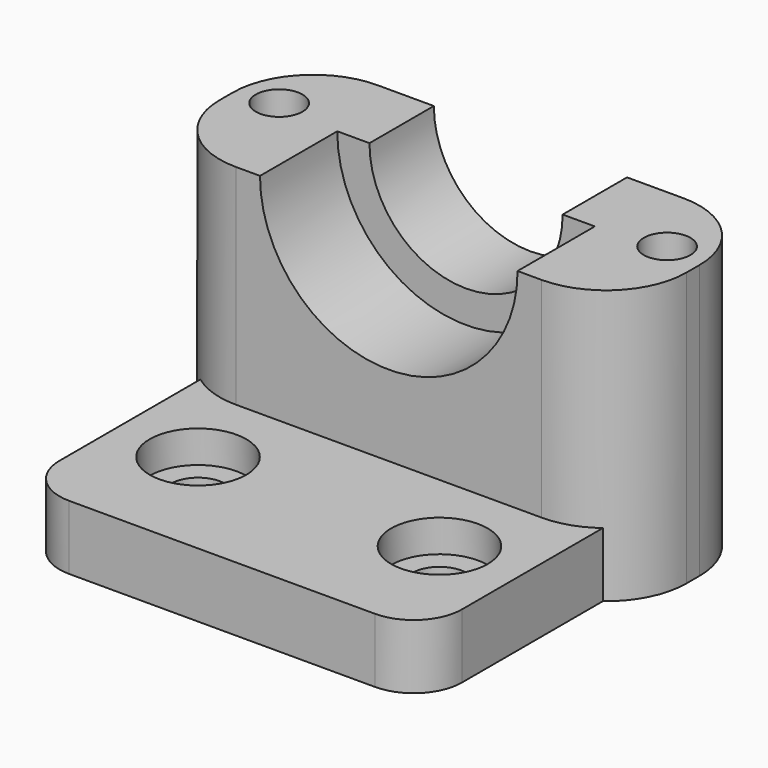
from build123d import *

# Parameters (mm, degrees)
F0_W      = 25
F0_H      = 35
F1_DEPTH  = 4
F2_R      = 1.675
F3_DEPTH  = 25
F4_W      = 25
F4_H      = 11
F5_DEPTH  = 13
F7_DEPTH  = 6
F8_R      = 8
F9_DEPTH  = 6
F2_R_2    = 3
F10_DEPTH = 2
F11_R     = 5
F12_W     = 11
F12_H     = 17
F13_DEPTH = 2
F14_W     = 11
F14_H     = 17
F15_DEPTH = 2
F16_R     = 1.45
F17_DEPTH = 25
F18_R     = 5
F20_DEPTH = 25
F21_R     = 3


with BuildPart() as f1:
    # F0 (on Top) → F1 (new body)
    with BuildSketch(Plane.XY):
        with Locations((12.5, 17.5)):
            Rectangle(F0_W, F0_H)
    extrude(amount=F1_DEPTH)

    # F2 (on face) → F3 (cut)
    with BuildSketch(Plane.XY.offset(4)):
        with BuildLine():
            ThreePointArc((3.325, 18.5605346784), (5, 16.8855346784), (6.675, 18.5605346784))
            ThreePointArc((6.675, 18.5605346784), (5, 20.2355346784), (3.325, 18.5605346784))
        make_face()
        with Locations((20, 18.5605346784)):
            Circle(F2_R)
        with Locations((20, 3.5605346784)):
            Circle(F2_R)
        with Locations((5, 3.5605346784)):
            Circle(F2_R)
    extrude(amount=-F3_DEPTH, mode=Mode.SUBTRACT)

    # F4 (on face) → F5 (join)
    with BuildSketch(Plane.XY.offset(4)):
        with Locations((12.5, 29.5)):
            Rectangle(F4_W, F4_H)
    extrude(amount=F5_DEPTH)

    # F6 (on face) → F7 (cut)
    with BuildSketch(Plane(origin=(0, 35, 0), x_dir=(-1, 0, 0), z_dir=(0, 1, 0))):
        with BuildLine():
            ThreePointArc((-18.5, 17), (-12.5, 11), (-6.5, 17))
            Line((-6.5, 17), (-18.5, 17))
        make_face()
    extrude(amount=-F7_DEPTH, mode=Mode.SUBTRACT)

    # F8 (on face) → F9 (cut)
    with BuildSketch(Plane.XZ.offset(-24)):
        with Locations((12.5, 17)):
            Circle(F8_R)
    extrude(amount=-F9_DEPTH, mode=Mode.SUBTRACT)

    # F2 (on face) → F10 (cut)
    with BuildSketch(Plane.XY.offset(4)):
        with BuildLine():
            ThreePointArc((8, 18.5605346784), (5, 21.5605346784), (2, 18.5605346784))
            ThreePointArc((2, 18.5605346784), (5, 15.5605346784), (8, 18.5605346784))
        make_face()
        with BuildLine():
            ThreePointArc((3.325, 18.5605346784), (5, 20.2355346784), (6.675, 18.5605346784))
            ThreePointArc((6.675, 18.5605346784), (5, 16.8855346784), (3.325, 18.5605346784))
        make_face(mode=Mode.SUBTRACT)
        with Locations((20, 18.5605346784)):
            Circle(F2_R_2)
        with Locations((20, 18.5605346784)):
            Circle(F2_R, mode=Mode.SUBTRACT)
        with Locations((20, 3.5605346784)):
            Circle(F2_R_2)
        with Locations((20, 3.5605346784)):
            Circle(F2_R, mode=Mode.SUBTRACT)
        with Locations((5, 3.5605346784)):
            Circle(F2_R_2)
        with Locations((5, 3.5605346784)):
            Circle(F2_R, mode=Mode.SUBTRACT)
    extrude(amount=-F10_DEPTH, mode=Mode.SUBTRACT)

    # F11
    f11_edges = [f1.edges().sort_by_distance(p)[0] for p in [
        (0, 0, 2),
        (25, 0, 2),
    ]]
    fillet(f11_edges, radius=F11_R)

    # F12 (on face) → F13 (join)
    with BuildSketch(Plane(origin=(0, 0, 0), x_dir=(0, -1, 0), z_dir=(-1, 0, 0))):
        with Locations((-29.5, 8.5)):
            Rectangle(F12_W, F12_H)
    extrude(amount=F13_DEPTH)

    # F14 (on face) → F15 (join)
    with BuildSketch(Plane.YZ.offset(25)):
        with Locations((29.5, 8.5)):
            Rectangle(F14_W, F14_H)
    extrude(amount=F15_DEPTH)

    # F16 (on face) → F17 (cut)
    with BuildSketch(Plane.XY.offset(17)):
        with Locations((0.45, 30.55)):
            Circle(F16_R)
        with Locations((24.55, 30.55)):
            Circle(F16_R)
    extrude(amount=-F17_DEPTH, mode=Mode.SUBTRACT)

    # F18
    f18_edges = [f1.edges().sort_by_distance(p)[0] for p in [
        (-2, 24, 8.5),
        (-2, 35, 8.5),
        (27, 35, 8.5),
        (27, 24, 8.5),
    ]]
    fillet(f18_edges, radius=F18_R)

    # F19 (on face) → F20 (cut)
    with BuildSketch(Plane.XY.offset(4)):
        Polygon((5, 11.0605346784), (0, 11.0605346784), (0, 5), (0, -4.7260266729), (29.4526517391, -4.7260266729), (29.4526517391, 11.0605346784), (25, 11.0605346784), align=None)
    extrude(amount=-F20_DEPTH, mode=Mode.SUBTRACT)

    # F21
    f21_edges = [f1.edges().sort_by_distance(p)[0] for p in [
        (0, 11.060535, 2),
        (25, 11.060535, 2),
    ]]
    fillet(f21_edges, radius=F21_R)


solid = f1.part
